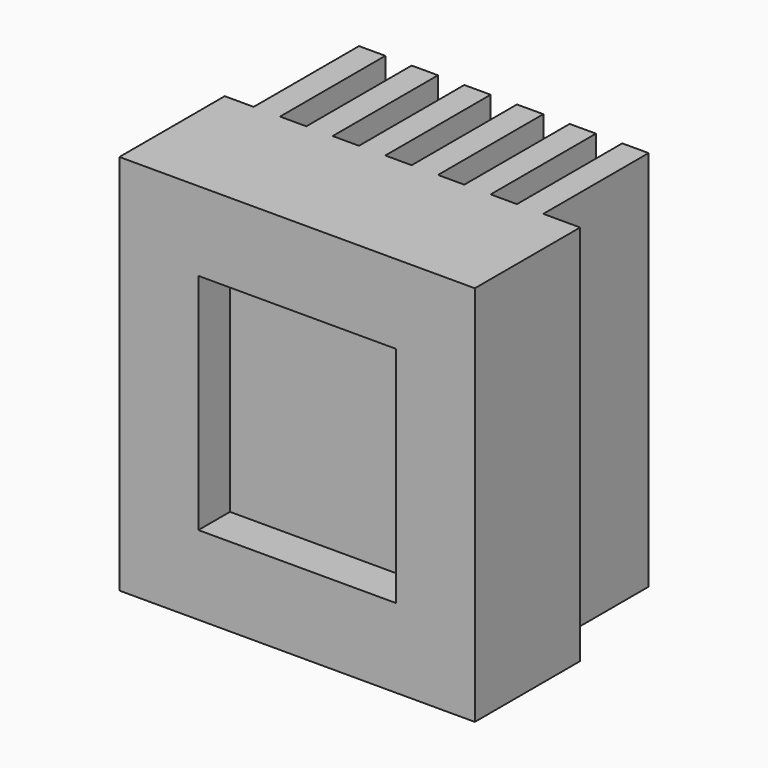
from build123d import *

# Parameters (mm, degrees)
F0_W     = 27
F0_H     = 20
F1_DEPTH = 29
F3_DEPTH = 29.001
F4_W     = 15
F4_H     = 17
F5_DEPTH = 3


with BuildPart() as f1:
    # F0 (on Top) → F1 (new body)
    with BuildSketch(Plane.XY):
        with Locations((13.5, 10)):
            Rectangle(F0_W, F0_H)
    extrude(amount=F1_DEPTH)

    # F2 (on face) → F3 (cut, through all)
    with BuildSketch(Plane.XY.offset(29)):
        Polygon((-5.87794, 25.212042), (-5.66129, 10), (2.2, 10), (2.2, 21), (4.2, 21), (4.2, 10), (6.2, 10), (6.2, 21), (8.2, 21), (8.2, 10), (10.2, 10), (10.2, 21), (12.2, 21), (12.2, 10), (14.2, 10), (14.2, 21), (16.2, 21), (16.2, 10), (18.2, 10), (18.2, 21), (20.2, 21), (20.2, 10), (22.2, 10), (22.2, 21), (24.2, 21), (24.2, 10), (26.2, 10), (30.417973, 10), (30.417973, 25.212042), align=None)
    extrude(amount=-F3_DEPTH, mode=Mode.SUBTRACT)

    # F4 (on face) → F5 (cut)
    with BuildSketch(Plane.XZ):
        with Locations((13.5, 14.5)):
            Rectangle(F4_W, F4_H)
    extrude(amount=-F5_DEPTH, mode=Mode.SUBTRACT)


solid = f1.part
